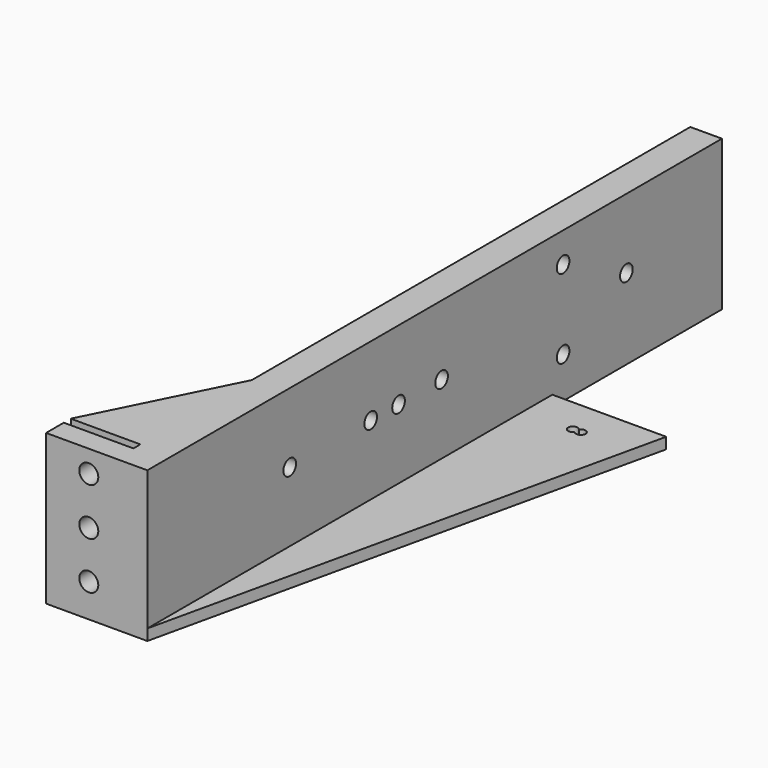
from build123d import *

# Parameters (mm, degrees)
SKETCH011_W          = 220
SKETCH011_H          = 47.5
SKETCH011_R          = 2.5
PAD006_DEPTH         = 10
SKETCH012_W          = 32
SKETCH012_H          = 47.5
SKETCH012_R          = 3
PAD007_DEPTH         = 7
PAD009_DEPTH         = 44
PAD009_DEPTH_BACK    = 3.5
PAD008_DEPTH         = 3.5
SKETCH015_R          = 2.5
HOLE002_DEPTH        = 15
HOLE002_TIPS_R       = 2.5
SKETCH016_R          = 4.5
POCKET002_DEPTH      = 5
POCKET002_DEPTH_BACK = 100
POCKET003_DEPTH      = 1.5
POCKET003_DEPTH_BACK = 100


with BuildPart() as part:
    # Sketch011 → Pad006 (new body)
    with BuildSketch(Plane.YZ):
        with Locations((110, 20.25)):
            Rectangle(SKETCH011_W, SKETCH011_H)
        with Locations((49.25, 22)):
            Circle(SKETCH011_R, mode=Mode.SUBTRACT)
        with Locations((81.25, 22)):
            Circle(SKETCH011_R, mode=Mode.SUBTRACT)
        with Locations((92.25, 22)):
            Circle(SKETCH011_R, mode=Mode.SUBTRACT)
        with Locations((109.25, 22)):
            Circle(SKETCH011_R, mode=Mode.SUBTRACT)
        with Locations((157.25, 34.5)):
            Circle(SKETCH011_R, mode=Mode.SUBTRACT)
        with Locations((157.25, 9.5)):
            Circle(SKETCH011_R, mode=Mode.SUBTRACT)
        with Locations((182.25, 22)):
            Circle(SKETCH011_R, mode=Mode.SUBTRACT)
    extrude(amount=PAD006_DEPTH)

    # Sketch012 (on Face2 of Pad006) → Pad007 (join)
    with BuildSketch(Plane.XZ):
        with Locations((-6, 20.25)):
            Rectangle(SKETCH012_W, SKETCH012_H)
        with Locations((-8.5, 37)):
            Circle(SKETCH012_R, mode=Mode.SUBTRACT)
        with Locations((-8.5, 22)):
            Circle(SKETCH012_R, mode=Mode.SUBTRACT)
        with Locations((-8.5, 7)):
            Circle(SKETCH012_R, mode=Mode.SUBTRACT)
    extrude(amount=PAD007_DEPTH)

    # Sketch014 → Pad009 (join, two sides)
    with BuildSketch(Plane.XY) as pad009_sk:
        Polygon((0, 2.75), (-22, 2.75), (0, 46.75), align=None)
    extrude(amount=PAD009_DEPTH)
    extrude(pad009_sk.sketch, amount=-PAD009_DEPTH_BACK)

    # Sketch013 → Pad008 (join)
    with BuildSketch(Plane.XY):
        Polygon((10, -7), (10, 153), (46, 153), align=None)
        with BuildLine():
            ThreePointArc((26.75, 142.579156), (24, 141.75), (26.75, 140.920844))
            ThreePointArc((26.75, 140.920844), (29.5, 141.75), (26.75, 142.579156))
        make_face(mode=Mode.SUBTRACT)
    extrude(amount=-PAD008_DEPTH)

    # Sketch015 (on Face21 of Pad008) → Hole002 (cut)
    with BuildSketch(Plane.XZ.offset(-2.75)):
        with Locations((-8.5, 37)):
            Circle(SKETCH015_R)
        with Locations((-8.5, 22)):
            Circle(SKETCH015_R)
        with Locations((-8.5, 7)):
            Circle(SKETCH015_R)
    extrude(amount=-HOLE002_DEPTH, mode=Mode.SUBTRACT)

    # Hole002 tips → Hole002 tip 1 section 0
    with BuildSketch(Plane.XZ.offset(-17.75), mode=Mode.PRIVATE) as hole002_tip_1_s0:
        with Locations((-8.5, 37)):
            Circle(HOLE002_TIPS_R)
    loft([hole002_tip_1_s0.sketch, Vertex(-8.5, 19.252152, 37)], mode=Mode.SUBTRACT)

    # Hole002 tips → Hole002 tip 2 section 0
    with BuildSketch(Plane.XZ.offset(-17.75), mode=Mode.PRIVATE) as hole002_tip_2_s0:
        with Locations((-8.5, 22)):
            Circle(HOLE002_TIPS_R)
    loft([hole002_tip_2_s0.sketch, Vertex(-8.5, 19.252152, 22)], mode=Mode.SUBTRACT)

    # Hole002 tips → Hole002 tip 3 section 0
    with BuildSketch(Plane.XZ.offset(-17.75), mode=Mode.PRIVATE) as hole002_tip_3_s0:
        with Locations((-8.5, 7)):
            Circle(HOLE002_TIPS_R)
    loft([hole002_tip_3_s0.sketch, Vertex(-8.5, 19.252152, 7)], mode=Mode.SUBTRACT)

    # Sketch016 (on Face4 of Hole002) → Pocket002 (cut, two sides)
    with BuildSketch(Plane(origin=(0, 0, 0), x_dir=(0, -1, 0), z_dir=(-1, 0, 0))) as pocket002_sk:
        with Locations((-182.25, 22)):
            Circle(SKETCH016_R)
        with Locations((-157.25, 34.5)):
            Circle(SKETCH016_R)
        with Locations((-157.25, 9.5)):
            Circle(SKETCH016_R)
        with Locations((-109.25, 22)):
            Circle(SKETCH016_R)
        with Locations((-92.25, 22)):
            Circle(SKETCH016_R)
        with Locations((-81.25, 22)):
            Circle(SKETCH016_R)
        with Locations((-49.25, 22)):
            Circle(SKETCH016_R)
    extrude(amount=-POCKET002_DEPTH, mode=Mode.SUBTRACT)
    extrude(pocket002_sk.sketch, amount=POCKET002_DEPTH_BACK, mode=Mode.SUBTRACT)

    # Sketch017 (on Face8 of Pocket002) → Pocket003 (cut, two sides)
    with BuildSketch(Plane(origin=(0, 0, -3.5), x_dir=(1, 0, 0), z_dir=(0, 0, -1))) as pocket003_sk:
        with BuildLine():
            ThreePointArc((26.75, -138.480826), (22, -141.75), (26.75, -145.019174))
            ThreePointArc((26.75, -145.019174), (31.5, -141.75), (26.75, -138.480826))
        make_face()
    extrude(amount=-POCKET003_DEPTH, mode=Mode.SUBTRACT)
    extrude(pocket003_sk.sketch, amount=POCKET003_DEPTH_BACK, mode=Mode.SUBTRACT)


solid = part.part
